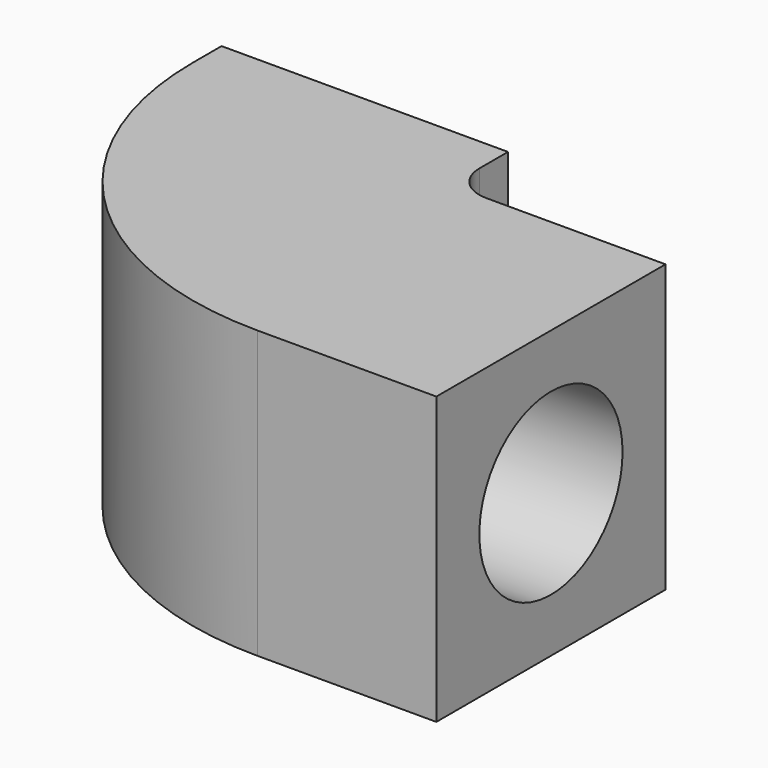
from build123d import *

# Parameters (mm, degrees)
F0_W     = 40
F0_H     = 40
F0_R     = 12.5
F3_ANGLE = 90


with BuildPart() as f2:
    # F2: sweep along a path in F1
    with BuildLine(Plane.XZ) as f2_path:
        Line((0, 0), (0, 5))
        ThreePointArc((0, 5), (7.3223304703, 22.6776695297), (25, 30))
        Line((25, 30), (50, 30))
    # F0 (on Top) → F2 (sweep)
    with BuildSketch(Plane.XY):
        Rectangle(F0_W, F0_H)
        Circle(F0_R, mode=Mode.SUBTRACT)
    sweep(path=f2_path.line)


with BuildPart() as f2_1:
    # F3: moved
    add(f2.part.rotate(Axis((0, -20, 0), (1, 0, 0)), F3_ANGLE))


solid = f2_1.part
